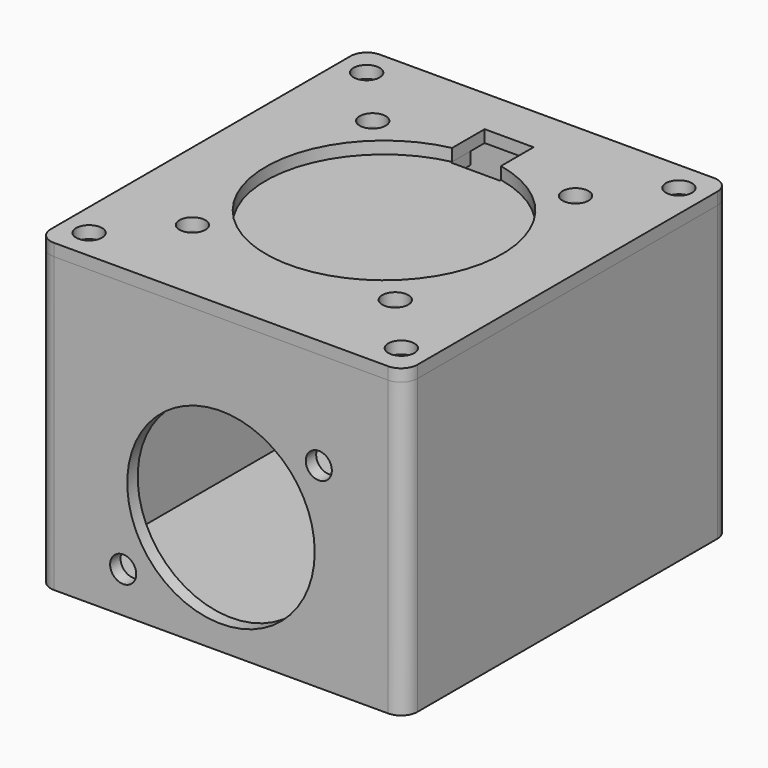
from build123d import *

# Parameters (mm, degrees)
SKETCH_W        = 45
SKETCH_H        = 50
PAD_DEPTH       = 1
SKETCH001_W     = 45
SKETCH001_H     = 50
SKETCH001_W_2   = 41.8
SKETCH001_H_2   = 46.8
PAD001_DEPTH    = 35
SKETCH002_R     = 11.5
SKETCH002_R_2   = 1.6
POCKET_DEPTH    = 5
SKETCH003_R     = 1.6
POCKET001_DEPTH = 5
FILLET_R        = 2
SKETCH004_W     = 45
SKETCH004_H     = 50
SKETCH004_R     = 1.6
PAD002_DEPTH    = 1.5
FILLET001_R     = 2
SKETCH007_W     = 20
SKETCH007_H     = 0.8
SKETCH007_W_2   = 0.8
SKETCH007_H_2   = 20
PAD004_DEPTH    = 2
SKETCH006_R     = 1.6
PAD003_DEPTH    = 1.5
FILLET002_R     = 2


with BuildPart() as body:
    # Sketch → Pad (new body)
    with BuildSketch(Plane.XY):
        Rectangle(SKETCH_W, SKETCH_H)
    extrude(amount=PAD_DEPTH)

    # Sketch001 (on Face6 of Pad) → Pad001 (join)
    with BuildSketch(Plane.XY.offset(1)):
        Rectangle(SKETCH001_W, SKETCH001_H)
        Rectangle(SKETCH001_W_2, SKETCH001_H_2, mode=Mode.SUBTRACT)
    extrude(amount=PAD001_DEPTH)

    # Sketch002 (on Face10 of Pad001) → Pocket (cut)
    with BuildSketch(Plane.XZ.offset(25)):
        with Locations((0, 14.5)):
            Circle(SKETCH002_R)
        with Locations((12, 24)):
            Circle(SKETCH002_R_2)
        with Locations((-12, 5)):
            Circle(SKETCH002_R_2)
    extrude(amount=-POCKET_DEPTH, mode=Mode.SUBTRACT)

    # Sketch003 (on Face18 of Pocket) → Pocket001 (cut)
    with BuildSketch(Plane.XY.offset(1)):
        with Locations((-19.155176, 21.283529)):
            Circle(SKETCH003_R)
        with Locations((19.155176, 21.283529)):
            Circle(SKETCH003_R)
        with Locations((-19.155176, -21.283529)):
            Circle(SKETCH003_R)
        with Locations((19.155176, -21.283529)):
            Circle(SKETCH003_R)
    extrude(amount=-POCKET001_DEPTH, mode=Mode.SUBTRACT)

    # Fillet
    fillet_edges = [body.edges().sort_by_distance(p)[0] for p in [
        (22.5, 25, 18.5),
        (22.5, -25, 18.5),
        (-22.5, 25, 18.5),
        (-22.5, -25, 18.5),
        (20.9, -23.4, 18.5),
        (20.9, 23.4, 18.5),
        (-20.9, -23.4, 18.5),
        (-20.9, 23.4, 18.5),
    ]]
    fillet(fillet_edges, radius=FILLET_R)


with BuildPart() as lid:
    # Sketch004 (on Face1 of CopyPocket001) → Pad002 (new body)
    with BuildSketch(Plane.XY.offset(36)):
        Rectangle(SKETCH004_W, SKETCH004_H)
        with Locations((-19.155176, 21.283529)):
            Circle(SKETCH004_R, mode=Mode.SUBTRACT)
        with Locations((19.155176, 21.283529)):
            Circle(SKETCH004_R, mode=Mode.SUBTRACT)
        with Locations((19.155176, -21.283529)):
            Circle(SKETCH004_R, mode=Mode.SUBTRACT)
        with Locations((-19.155176, -21.283529)):
            Circle(SKETCH004_R, mode=Mode.SUBTRACT)
        with Locations((12.442744, 13.825271)):
            Circle(SKETCH004_R, mode=Mode.SUBTRACT)
        with Locations((-12.442744, 13.825271)):
            Circle(SKETCH004_R, mode=Mode.SUBTRACT)
        with Locations((-12.442744, -13.825271)):
            Circle(SKETCH004_R, mode=Mode.SUBTRACT)
        with Locations((12.442744, -13.825271)):
            Circle(SKETCH004_R, mode=Mode.SUBTRACT)
        with BuildLine():
            ThreePointArc((-3, 14.186261), (0, -14.5), (3, 14.186261))
            Line((3, 19.186261), (3, 14.186261))
            Line((-3, 19.186261), (3, 19.186261))
            Line((-3, 14.186261), (-3, 19.186261))
        make_face(mode=Mode.SUBTRACT)
    extrude(amount=PAD002_DEPTH)

    # Fillet001
    fillet001_edges = [lid.edges().sort_by_distance(p)[0] for p in [
        (-22.5, 25, 36.75),
        (22.5, 25, 36.75),
        (22.5, -25, 36.75),
        (-22.5, -25, 36.75),
    ]]
    fillet(fillet001_edges, radius=FILLET001_R)

    # Sketch007 (on Face2 of Fillet001) → Pad004 (join)
    with BuildSketch(Plane(origin=(0, 0, 36), x_dir=(1, 0, 0), z_dir=(0, 0, -1))):
        with Locations((0, 22.9)):
            Rectangle(SKETCH007_W, SKETCH007_H)
        with Locations((20.4, 0)):
            Rectangle(SKETCH007_W_2, SKETCH007_H_2)
        with Locations((0, -22.9)):
            Rectangle(SKETCH007_W, SKETCH007_H)
        with Locations((-20.4, 0)):
            Rectangle(SKETCH007_W_2, SKETCH007_H_2)
    extrude(amount=PAD004_DEPTH)


with BuildPart() as socketholder:
    # Sketch006 (on Face1 of CopyPad003) → Pad003 (new body)
    with BuildSketch(Plane(origin=(0, 0, 36), x_dir=(1, 0, 0), z_dir=(0, 0, -1))):
        Polygon((-16, 17), (16, 17), (16, -17), (3, -17), (3, -14), (-3, -14), (-3, -17), (-16, -17), align=None)
        with Locations((-12.442744, 13.825271)):
            Circle(SKETCH006_R, mode=Mode.SUBTRACT)
        with Locations((12.442744, 13.825271)):
            Circle(SKETCH006_R, mode=Mode.SUBTRACT)
        with Locations((-12.442744, -13.825271)):
            Circle(SKETCH006_R, mode=Mode.SUBTRACT)
        with Locations((12.442744, -13.825271)):
            Circle(SKETCH006_R, mode=Mode.SUBTRACT)
    extrude(amount=PAD003_DEPTH)

    # Fillet002
    fillet002_edges = [socketholder.edges().sort_by_distance(p)[0] for p in [
        (-16, 17, 35.25),
        (-16, -17, 35.25),
        (16, 17, 35.25),
        (16, -17, 35.25),
    ]]
    fillet(fillet002_edges, radius=FILLET002_R)


solid = Compound([body.part, lid.part, socketholder.part])
